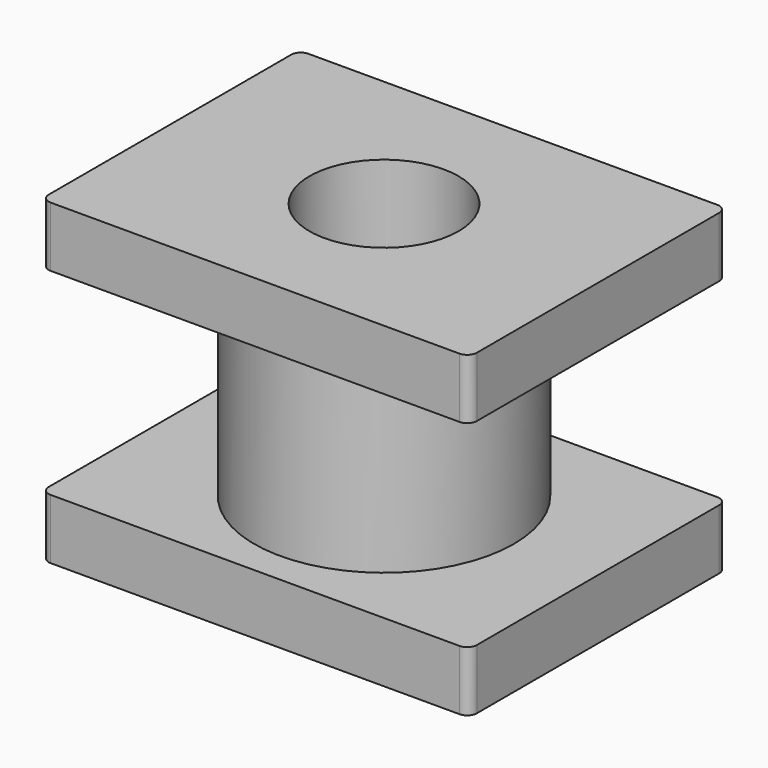
from build123d import *

# Parameters (mm, degrees)
F0_R     = 2.7
F0_R_2   = 1.55
F1_DEPTH = 2.05
F2_W     = 8.9
F2_H     = 6.7
F2_R     = 2.7
F2_R_2   = 1.55
F3_DEPTH = 1.25
F4_R     = 0.2


with BuildPart() as f1:
    # F0 (on Top) → F1 (new body)
    with BuildSketch(Plane.XY):
        Circle(F0_R)
        Circle(F0_R_2, mode=Mode.SUBTRACT)
    extrude(amount=F1_DEPTH)

    # F2 (on face) → F3 (join)
    with BuildSketch(Plane.XY.offset(2.05)):
        Rectangle(F2_W, F2_H)
        Circle(F2_R, mode=Mode.SUBTRACT)
        Circle(F2_R)
        Circle(F2_R_2, mode=Mode.SUBTRACT)
    extrude(amount=F3_DEPTH)

    # F4
    f4_edges = [f1.edges().sort_by_distance(p)[0] for p in [
        (4.45, -3.35, 2.675),
        (-4.45, -3.35, 2.675),
        (-4.45, 3.35, 2.675),
        (4.45, 3.35, 2.675),
    ]]
    fillet(f4_edges, radius=F4_R)

    # F5: F1 across plane


with BuildPart() as f1_1:
    add(f1.part)
    add(f1.part.mirror(Plane.XY))


solid = f1_1.part
